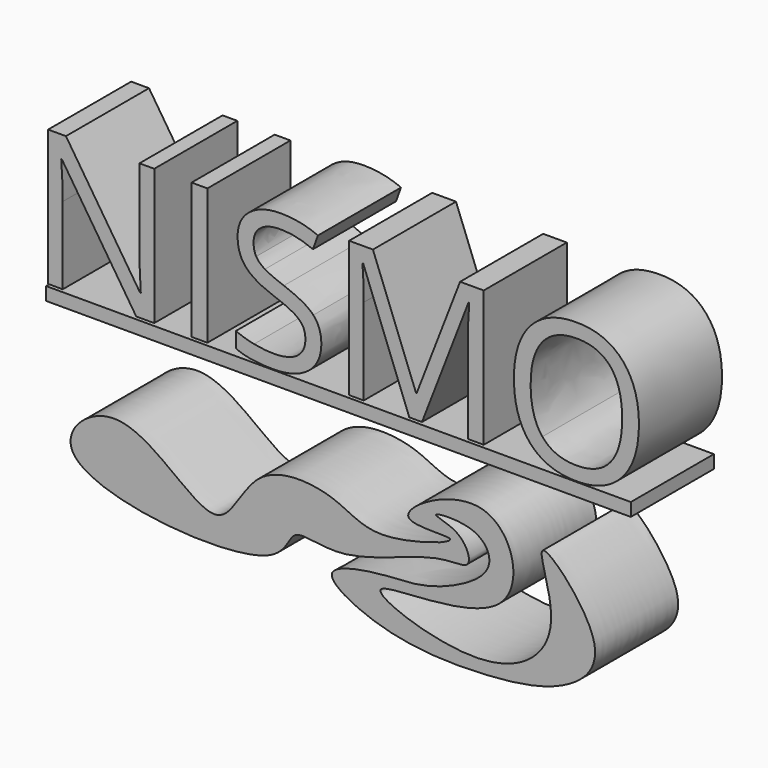
from build123d import *

# Parameters (mm, degrees)
F1_DEPTH = 25.4
F0_W     = 3.8629963886
F0_H     = 33.2392288127
F2_DEPTH = 25.4
F3_DEPTH = 25.4
F4_DEPTH = 25.4
F5_DEPTH = 25.4
F6_W     = 143.0366784334
F6_H     = 3.2044788823
F7_DEPTH = 25.4
F9_DEPTH = 25.4


with BuildPart() as f1:
    # F0 (on Front) → F1 (new body)
    with BuildSketch(Plane.XZ):
        with BuildLine():
            Line((-49.9315926803, -4.5250200819), (-45.5229753328, -4.5250200819))
            Line((-45.5229753328, -4.5250200819), (-45.5229753328, 28.7142087308))
            Line((-45.5229753328, 28.7142087308), (-49.1386235534, 28.7142087308))
            Line((-49.1386235534, 28.7142087308), (-49.1386235534, 9.6393000097))
            add(Edge.make_bspline(
                [(-49.0222244155, 4.8742103024), (-49.1822732301, 8.2061356244), (-49.1386235534, 9.6393000097)],
                knots=[0, 0, 0, 1, 1, 1], degree=2))
            add(Edge.make_bspline(
                [(-48.8185259242, 0.9311895065), (-48.8621756009, 1.5422849804), (-49.0222244155, 4.8742103024)],
                knots=[0, 0, 0, 1, 1, 1], degree=2))
            Line((-48.8185259242, 0.9311895065), (-49.0003995772, 0.9311895065))
            Line((-49.0003995772, 0.9311895065), (-67.1222903569, 28.7142087308))
            Line((-67.1222903569, 28.7142087308), (-71.4872580276, 28.7142087308))
            Line((-71.4872580276, 28.7142087308), (-71.4872580276, -4.5250200819))
            Line((-71.4872580276, -4.5250200819), (-67.9152594837, -4.5250200819))
            Line((-67.9152594837, -4.5250200819), (-67.9152594837, 14.3680149863))
            add(Edge.make_bspline(
                [(-68.2790067896, 23.3671233342), (-67.9152594837, 18.4565347046), (-67.9152594837, 14.3680149863)],
                knots=[0, 0, 0, 1, 1, 1], degree=2))
            Line((-68.2790067896, 23.3671233342), (-68.0971331367, 23.3671233342))
            Line((-68.0971331367, 23.3671233342), (-49.9315926803, -4.5250200819))
        make_face()
    extrude(amount=F1_DEPTH)


with BuildPart() as f2:
    # F0 (on Front) → F2 (new body)
    with BuildSketch(Plane.XZ):
        with Locations((-34.4541448144, 12.0945943245)):
            Rectangle(F0_W, F0_H)
    extrude(amount=F2_DEPTH)


with BuildPart() as f3:
    # F0 (on Front) → F3 (new body)
    with BuildSketch(Plane.XZ):
        with BuildLine():
            add(Edge.make_bspline(
                [(-4.6523280424, 4.3213143975), (-4.6523280424, -0.0654781116), (-7.835116969, -2.5244098995)],
                knots=[0, 0, 0, 1, 1, 1], degree=2))
            add(Edge.make_bspline(
                [(-6.6165634942, 9.8648233393), (-4.6523280424, 7.7259891807), (-4.6523280424, 4.3213143975)],
                knots=[0, 0, 0, 1, 1, 1], degree=2))
            add(Edge.make_bspline(
                [(-13.8114852048, 13.8660437042), (-8.5807989461, 12.003657498), (-6.6165634942, 9.8648233393)],
                knots=[0, 0, 0, 1, 1, 1], degree=2))
            add(Edge.make_bspline(
                [(-18.4383509358, 15.8993911441), (-16.9251621433, 14.9791104602), (-13.8114852048, 13.8660437042)],
                knots=[0, 0, 0, 1, 1, 1], degree=2))
            add(Edge.make_bspline(
                [(-20.5880975137, 17.925463638), (-19.9515397284, 16.819671828), (-18.4383509358, 15.8993911441)],
                knots=[0, 0, 0, 1, 1, 1], degree=2))
            add(Edge.make_bspline(
                [(-21.224655299, 20.7554176778), (-21.224655299, 19.0312554479), (-20.5880975137, 17.925463638)],
                knots=[0, 0, 0, 1, 1, 1], degree=2))
            add(Edge.make_bspline(
                [(-19.496855596, 24.4147155751), (-21.224655299, 23.0979503278), (-21.224655299, 20.7554176778)],
                knots=[0, 0, 0, 1, 1, 1], degree=2))
            add(Edge.make_bspline(
                [(-14.6990286312, 25.7314808225), (-17.769055893, 25.7314808225), (-19.496855596, 24.4147155751)],
                knots=[0, 0, 0, 1, 1, 1], degree=2))
            add(Edge.make_bspline(
                [(-6.6965879015, 24.0073185925), (-10.8142074043, 25.7314808225), (-14.6990286312, 25.7314808225)],
                knots=[0, 0, 0, 1, 1, 1], degree=2))
            Line((-6.6965879015, 24.0073185925), (-5.488946846, 27.368343699))
            add(Edge.make_bspline(
                [(-14.6044543317, 29.1870802285), (-9.6502160254, 29.1870802285), (-5.488946846, 27.368343699)],
                knots=[0, 0, 0, 1, 1, 1], degree=2))
            add(Edge.make_bspline(
                [(-22.2467852286, 26.9136595666), (-19.3622690928, 29.1870802285), (-14.6044543317, 29.1870802285)],
                knots=[0, 0, 0, 1, 1, 1], degree=2))
            add(Edge.make_bspline(
                [(-25.1313013643, 20.7990673545), (-25.1313013643, 24.6402389048), (-22.2467852286, 26.9136595666)],
                knots=[0, 0, 0, 1, 1, 1], degree=2))
            add(Edge.make_bspline(
                [(-23.1416036011, 14.8663487954), (-25.1313013643, 17.1397694572), (-25.1313013643, 20.7990673545)],
                knots=[0, 0, 0, 1, 1, 1], degree=2))
            add(Edge.make_bspline(
                [(-16.5177651607, 10.9342404187), (-21.1519058378, 12.5929281335), (-23.1416036011, 14.8663487954)],
                knots=[0, 0, 0, 1, 1, 1], degree=2))
            add(Edge.make_bspline(
                [(-11.5744392736, 8.8208685714), (-13.2003897309, 9.7556991476), (-16.5177651607, 10.9342404187)],
                knots=[0, 0, 0, 1, 1, 1], degree=2))
            add(Edge.make_bspline(
                [(-9.253731462, 6.7838836584), (-9.9484888162, 7.8860379953), (-11.5744392736, 8.8208685714)],
                knots=[0, 0, 0, 1, 1, 1], degree=2))
            add(Edge.make_bspline(
                [(-8.5589741077, 3.9575670916), (-8.5589741077, 5.6817293215), (-9.253731462, 6.7838836584)],
                knots=[0, 0, 0, 1, 1, 1], degree=2))
            add(Edge.make_bspline(
                [(-10.5159346134, -0.1273151536), (-8.5589741077, 1.3385864891), (-8.5589741077, 3.9575670916)],
                knots=[0, 0, 0, 1, 1, 1], degree=2))
            add(Edge.make_bspline(
                [(-16.3358915078, -1.5932167964), (-12.4728951192, -1.5932167964), (-10.5159346134, -0.1273151536)],
                knots=[0, 0, 0, 1, 1, 1], degree=2))
            add(Edge.make_bspline(
                [(-21.1082561611, -1.0912455142), (-18.7002489961, -1.5932167964), (-16.3358915078, -1.5932167964)],
                knots=[0, 0, 0, 1, 1, 1], degree=2))
            add(Edge.make_bspline(
                [(-25.5677981314, 0.2691694098), (-23.5162633261, -0.5892742321), (-21.1082561611, -1.0912455142)],
                knots=[0, 0, 0, 1, 1, 1], degree=2))
            Line((-25.5677981314, 0.2691694098), (-25.5677981314, -3.4556030026))
            add(Edge.make_bspline(
                [(-16.474115484, -4.9833416873), (-22.3813717317, -4.9833416873), (-25.5677981314, -3.4556030026)],
                knots=[0, 0, 0, 1, 1, 1], degree=2))
            add(Edge.make_bspline(
                [(-7.835116969, -2.5244098995), (-11.0179058956, -4.9833416873), (-16.474115484, -4.9833416873)],
                knots=[0, 0, 0, 1, 1, 1], degree=2))
        make_face()
    extrude(amount=F3_DEPTH)


with BuildPart() as f4:
    # F0 (on Front) → F4 (new body)
    with BuildSketch(Plane.XZ):
        with BuildLine():
            Line((5.5835211455, 24.9385116956), (16.8596876282, -4.5250200819))
            Line((16.8596876282, -4.5250200819), (19.9733645667, -4.5250200819))
            Line((19.9733645667, -4.5250200819), (31.344105349, 24.8948620189))
            Line((31.344105349, 24.8948620189), (31.5259790019, 24.8948620189))
            add(Edge.make_bspline(
                [(31.2058813728, 16.8924212892), (31.2058813728, 20.5735440249), (31.5259790019, 24.8948620189)],
                knots=[0, 0, 0, 1, 1, 1], degree=2))
            Line((31.2058813728, 16.8924212892), (31.2058813728, -4.5250200819))
            Line((31.2058813728, -4.5250200819), (35.0688777614, -4.5250200819))
            Line((35.0688777614, -4.5250200819), (35.0688777614, 28.7142087308))
            Line((35.0688777614, 28.7142087308), (29.2925705438, 28.7142087308))
            Line((29.2925705438, 28.7142087308), (18.6784241577, 1.2949368124))
            Line((18.6784241577, 1.2949368124), (18.4965505048, 1.2949368124))
            Line((18.4965505048, 1.2949368124), (7.9697034722, 28.7142087308))
            Line((7.9697034722, 28.7142087308), (2.1497465778, 28.7142087308))
            Line((2.1497465778, 28.7142087308), (2.1497465778, -4.5250200819))
            Line((2.1497465778, -4.5250200819), (5.7217451217, -4.5250200819))
            Line((5.7217451217, -4.5250200819), (5.7217451217, 16.6159733367))
            add(Edge.make_bspline(
                [(5.4016474925, 24.9385116956), (5.7217451217, 21.4392626129), (5.7217451217, 16.6159733367)],
                knots=[0, 0, 0, 1, 1, 1], degree=2))
            Line((5.4016474925, 24.9385116956), (5.5835211455, 24.9385116956))
        make_face()
    extrude(amount=F4_DEPTH)


with BuildPart() as f5:
    # F0 (on Front) → F5 (new body)
    with BuildSketch(Plane.XZ):
        with BuildLine():
            add(Edge.make_bspline(
                [(73.0368215507, 12.1418814742), (73.0368215507, 4.1612655829), (68.9992264553, -0.4110380522)],
                knots=[0, 0, 0, 1, 1, 1], degree=2))
            add(Edge.make_bspline(
                [(69.0137763475, 24.6911635276), (73.0368215507, 20.1443222039), (73.0368215507, 12.1418814742)],
                knots=[0, 0, 0, 1, 1, 1], degree=2))
            add(Edge.make_bspline(
                [(57.8249092182, 29.2380048513), (64.9907311443, 29.2380048513), (69.0137763475, 24.6911635276)],
                knots=[0, 0, 0, 1, 1, 1], degree=2))
            add(Edge.make_bspline(
                [(46.461443382, 24.7711879349), (50.4626637469, 29.2380048513), (57.8249092182, 29.2380048513)],
                knots=[0, 0, 0, 1, 1, 1], degree=2))
            add(Edge.make_bspline(
                [(42.4602230172, 12.1855311509), (42.4602230172, 20.3043710185), (46.461443382, 24.7711879349)],
                knots=[0, 0, 0, 1, 1, 1], degree=2))
            add(Edge.make_bspline(
                [(46.4505309628, -0.4910624595), (42.4602230172, 4.0012167683), (42.4602230172, 12.1855311509)],
                knots=[0, 0, 0, 1, 1, 1], degree=2))
            add(Edge.make_bspline(
                [(57.7812595415, -4.9833416873), (50.4408389085, -4.9833416873), (46.4505309628, -0.4910624595)],
                knots=[0, 0, 0, 1, 1, 1], degree=2))
            add(Edge.make_bspline(
                [(68.9992264553, -0.4110380522), (64.9616313598, -4.9833416873), (57.7812595415, -4.9833416873)],
                knots=[0, 0, 0, 1, 1, 1], degree=2))
        make_face()
        with BuildLine():
            add(Edge.make_bspline(
                [(46.5487427354, 12.1418814742), (46.5487427354, 5.3907314768), (49.4259839251, 1.8987573402)],
                knots=[0, 0, 0, 1, 1, 1], degree=2))
            add(Edge.make_bspline(
                [(49.4259839251, 22.2904313087), (46.5487427354, 18.7984571721), (46.5487427354, 12.1418814742)],
                knots=[0, 0, 0, 1, 1, 1], degree=2))
            add(Edge.make_bspline(
                [(57.8249092182, 25.7824054453), (52.3032251147, 25.7824054453), (49.4259839251, 22.2904313087)],
                knots=[0, 0, 0, 1, 1, 1], degree=2))
            add(Edge.make_bspline(
                [(66.1328976848, 22.3158936201), (63.3247684833, 25.7824054453), (57.8249092182, 25.7824054453)],
                knots=[0, 0, 0, 1, 1, 1], degree=2))
            add(Edge.make_bspline(
                [(68.9410268863, 12.1418814742), (68.9410268863, 18.8493817949), (66.1328976848, 22.3158936201)],
                knots=[0, 0, 0, 1, 1, 1], degree=2))
            add(Edge.make_bspline(
                [(66.1219852657, 1.884207448), (68.9410268863, 5.3616316923), (68.9410268863, 12.1418814742)],
                knots=[0, 0, 0, 1, 1, 1], degree=2))
            add(Edge.make_bspline(
                [(57.7812595415, -1.5932167964), (63.302943645, -1.5932167964), (66.1219852657, 1.884207448)],
                knots=[0, 0, 0, 1, 1, 1], degree=2))
            add(Edge.make_bspline(
                [(49.4259839251, 1.8987573402), (52.3032251147, -1.5932167964), (57.7812595415, -1.5932167964)],
                knots=[0, 0, 0, 1, 1, 1], degree=2))
        make_face(mode=Mode.SUBTRACT)
    extrude(amount=F5_DEPTH)


with BuildPart() as f7:
    # F6 (on Front) → F7 (new body)
    with BuildSketch(Plane.XZ):
        with Locations((-0.4658177495, -6.7479503341)):
            Rectangle(F6_W, F6_H)
    extrude(amount=F7_DEPTH)


with BuildPart() as f9:
    # F8 (on Front) → F9 (new body)
    with BuildSketch(Plane.XZ):
        with BuildLine():
            add(Edge.make_bspline(
                [(-65.4548183084, -38.7533269823), (-67.9136002828, -34.1723852713), (-52.7796165926, -19.5639312284), (-29.0679897735, -50.5627478548), (-22.1943989597, -25.1667722477), (-0.2705196485, -26.7570577783), (7.7254112356, -34.8448805293), (36.2234194101, -25.5287365435), (6.6108754188, -29.1881115793), (39.0563201253, -9.1791569172), (48.7834790673, -45.6062465385), (-7.5559657431, -39.7978653477), (36.9557683882, -56.4481971063), (56.6246903802, -40.5256834432), (43.6493543952, -13.9274443738), (67.5292038446, -38.8327325953), (55.748251736, -51.6776760468), (34.4430889356, -54.6478806179), (10.8371313246, -53.7988233242), (-7.9179148982, -43.5107047168), (10.2421257485, -40.1018762879), (18.8149934982, -40.4481323078), (29.6874641224, -36.9281702737), (38.4579425579, -30.4070144897), (33.7583964768, -22.1396261207), (19.1376610388, -23.2426123135), (29.9061968746, -24.6089190889), (32.9874785299, -33.0553943262), (22.9683011584, -30.9692351592), (1.0024392117, -42.0491982894), (-12.6509007652, -36.2846195873), (-13.3273202656, -51.2155400627), (-61.02606181, -47.0045162222), (-65.4548183084, -38.7533269823)],
                knots=[0, 0, 0, 0, 0.0316997181, 0.0744754617, 0.1069679921, 0.1417516488, 0.1715075341, 0.2049431905, 0.2310220347, 0.2672406503, 0.3031306644, 0.3482237807, 0.3893301734, 0.427970522, 0.4595744005, 0.4960036569, 0.5257810265, 0.563524622, 0.6054724537, 0.6350009137, 0.6630236727, 0.6890442377, 0.7165767826, 0.7414608168, 0.7634994955, 0.7880666491, 0.8078668243, 0.8281407425, 0.8497585054, 0.8910018539, 0.9182249246, 0.9429024883, 1, 1, 1, 1], degree=3))
        make_face()
    extrude(amount=F9_DEPTH)


solid = Compound([f1.part, f2.part, f3.part, f4.part, f5.part, f7.part, f9.part])
